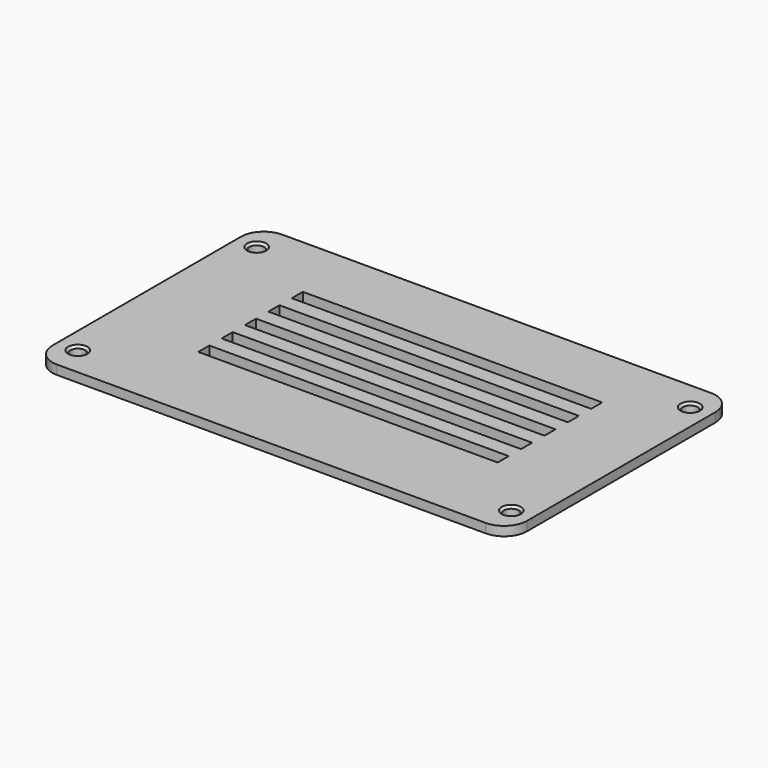
from build123d import *

# Parameters (mm, degrees)
F0_W     = 103.023604
F0_H     = 61.1
F0_R     = 1.6
F0_W_2   = 65
F0_H_2   = 3
F1_DEPTH = 2
F2_R     = 5
F3_SIZE  = 0.5


with BuildPart() as f1:
    # F0 (on Top) → F1 (new body)
    with BuildSketch(Plane.XY):
        Rectangle(F0_W, F0_H)
        with Locations((-47.05, -24.27)):
            Circle(F0_R, mode=Mode.SUBTRACT)
        with BuildLine():
            ThreePointArc((45.45, -24.27), (47.05, -22.67), (48.65, -24.27))
            ThreePointArc((48.65, -24.27), (47.05, -25.87), (45.45, -24.27))
        make_face(mode=Mode.SUBTRACT)
        with Locations((1.75037, -10.466814)):
            Rectangle(F0_W_2, F0_H_2, mode=Mode.SUBTRACT)
        with Locations((1.766913, -4.144543)):
            Rectangle(F0_W_2, F0_H_2, mode=Mode.SUBTRACT)
        with Locations((-47.05, 24.27)):
            Circle(F0_R, mode=Mode.SUBTRACT)
        with Locations((1.783457, 2.177729)):
            Rectangle(F0_W_2, F0_H_2, mode=Mode.SUBTRACT)
        with Locations((1.8, 8.5)):
            Rectangle(F0_W_2, F0_H_2, mode=Mode.SUBTRACT)
        with Locations((1.816543, 14.822271)):
            Rectangle(F0_W_2, F0_H_2, mode=Mode.SUBTRACT)
        with Locations((47.05, 24.27)):
            Circle(F0_R, mode=Mode.SUBTRACT)
    extrude(amount=F1_DEPTH)

    # F2
    f2_edges = [f1.edges().sort_by_distance(p)[0] for p in [
        (-51.511802, -30.55, 1),
        (-51.511802, 30.55, 1),
        (51.511802, -30.55, 1),
        (51.511802, 30.55, 1),
    ]]
    fillet(f2_edges, radius=F2_R)

    # F3
    f3_edges = [f1.edges().sort_by_distance(p)[0] for p in [
        (-48.65, -24.27, 2),
        (-48.65, 24.27, 2),
        (45.45, 24.27, 2),
        (48.65, -24.27, 2),
    ]]
    chamfer(f3_edges, length=F3_SIZE)


solid = f1.part
